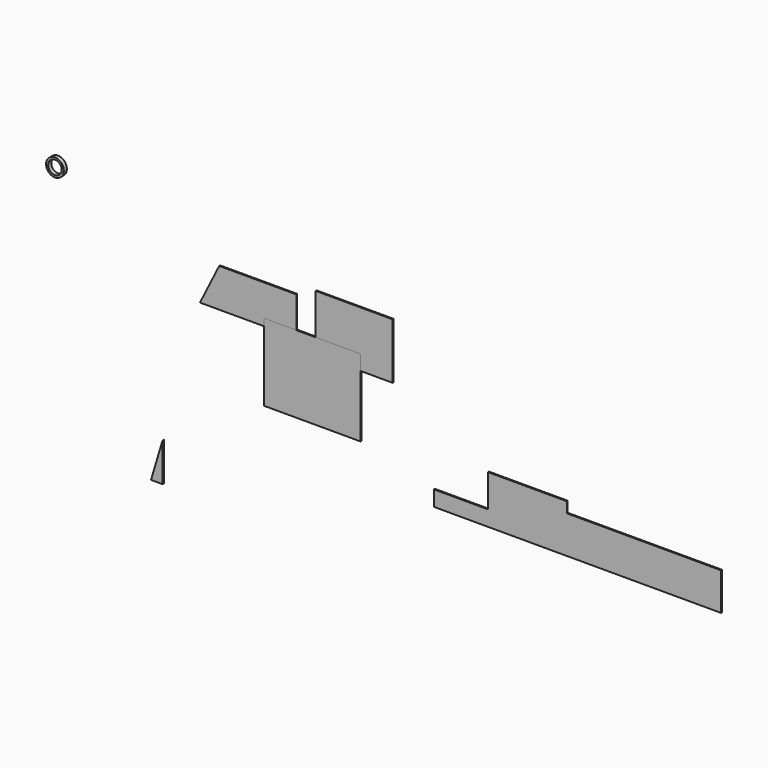
from build123d import *

# Parameters (mm, degrees)
F0_W      = 200
F0_H      = 145
F1_DEPTH  = 3
F3_DEPTH  = 3
F4_W      = 250
F4_H      = 200
F5_DEPTH  = 3
F7_DEPTH  = 3
F9_DEPTH  = 5
F10_R     = 23
F10_R_2   = 17.5
F11_DEPTH = 10


with BuildPart() as f1:
    # F0 (on Front) → F1 (new body)
    with BuildSketch(Plane.XZ):
        with Locations((100, 51.818181)):
            Rectangle(F0_W, F0_H)
    extrude(amount=F1_DEPTH)


with BuildPart() as f3:
    # F2 (on Front) → F3 (new body)
    with BuildSketch(Plane.XZ):
        Polygon((-300, 0), (-50, 0), (-50, 100), (-250, 100), align=None)
    extrude(amount=F3_DEPTH)


with BuildPart() as f5:
    # F4 (on Front) → F5 (new body)
    with BuildSketch(Plane.XZ):
        with Locations((-8.421481, -81.690291)):
            Rectangle(F4_W, F4_H)
    extrude(amount=F5_DEPTH)


with BuildPart() as f7:
    # F6 (on Front) → F7 (new body)
    with BuildSketch(Plane.XZ):
        Polygon((651.855922, -144.173652), (446.855922, -144.173652), (446.855922, -229.173652), (306.855922, -229.173652), (306.855922, -269.173652), (1051.855922, -269.173652), (1051.855922, -171.745211), (651.855922, -171.745211), align=None)
    extrude(amount=F7_DEPTH)


with BuildPart() as f9:
    # F8 (on Front) → F9 (new body)
    with BuildSketch(Plane.XZ):
        Polygon((-395.379289, -344.920856), (-425.379289, -444.920856), (-395.379289, -444.920856), align=None)
    extrude(amount=F9_DEPTH)


with BuildPart() as f11:
    # F10 (on Front) → F11 (new body)
    with BuildSketch(Plane.XZ):
        with Locations((-670.642197, 191.013753)):
            Circle(F10_R)
        with Locations((-670.642197, 191.013753)):
            Circle(F10_R_2, mode=Mode.SUBTRACT)
    extrude(amount=F11_DEPTH)


solid = Compound([f1.part, f3.part, f5.part, f7.part, f9.part, f11.part])
